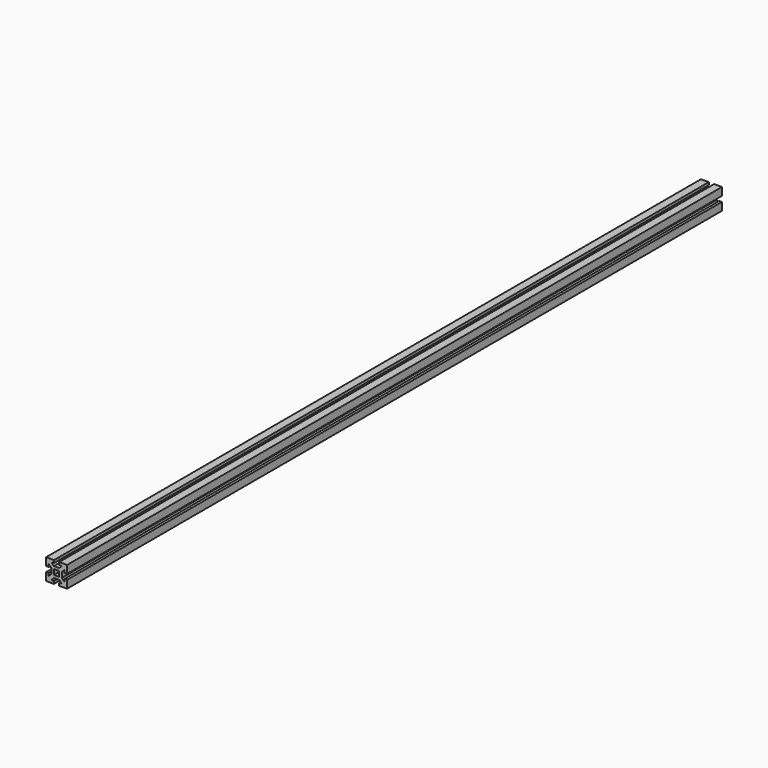
from build123d import *

# Parameters (mm, degrees)
F1_DEPTH = 1560


with BuildPart() as f1:
    # F0 (on Front) → F1 (new body)
    with BuildSketch(Plane.XZ):
        Polygon((20, 5), (20, 20), (5, 20), (5, 15), (10, 15), (5, 10), (-5, 10), (-10, 15), (-5, 15), (-5, 20), (-20, 20), (-20, 5), (-15, 5), (-15, 10), (-10, 5), (-10, -5), (-15, -10), (-15, -5), (-20, -5), (-20, -20), (-5, -20), (-5, -15), (-10, -15), (-5, -10), (5, -10), (10, -15), (5, -15), (5, -20), (20, -20), (20, -5), (15, -5), (15, -10), (10, -5), (10, 5), (15, 10), (15, 5), align=None)
        Polygon((-5, 0), (-5, 5), (0, 5), (5, 5), (5, 0), (5, -5), (0, -5), (-5, -5), align=None, mode=Mode.SUBTRACT)
    extrude(amount=F1_DEPTH)


solid = f1.part
